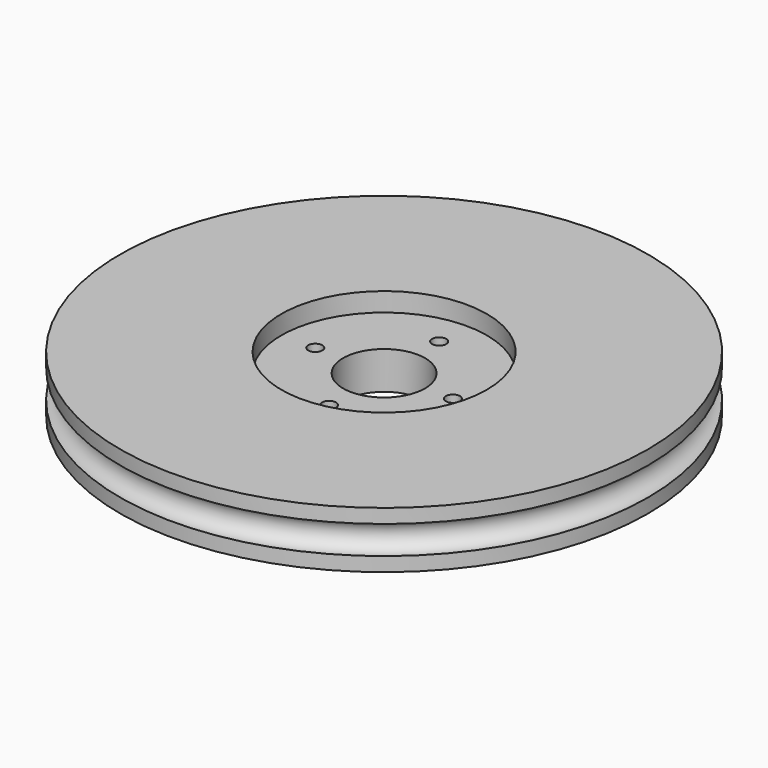
from build123d import *

# Parameters (mm, degrees)
CYLINDER003_R     = 0.75
CYLINDER003_DEPTH = 10
ARRAY_COUNT       = 4
CYLINDER002_R     = 4.35
CYLINDER002_DEPTH = 10
CYLINDER001_R     = 10.9
CYLINDER001_DEPTH = 10
TORUS_R           = 1.5
CYLINDER_R        = 28
CYLINDER_DEPTH    = 6


with BuildPart() as array:
    # Cylinder003 → Cylinder003 (new body)
    with BuildSketch(Plane(origin=(0, 7.3, -5), x_dir=(1, 0, 0), z_dir=(0, 0, 1))):
        Circle(CYLINDER003_R)
    extrude(amount=CYLINDER003_DEPTH)

    # Array: Array ×4 about axis
    array_axis = Axis((0, 0, 0), (0, 0, 1))


with BuildPart() as array_1:
    add(array.part)
    for i in range(1, ARRAY_COUNT):
        add(array.part.rotate(array_axis, i * 360 / ARRAY_COUNT))


with BuildPart() as cilindre002:
    # Cylinder002 → Cylinder002 (new body)
    with BuildSketch(Plane.XY.offset(-5)):
        Circle(CYLINDER002_R)
    extrude(amount=CYLINDER002_DEPTH)


with BuildPart() as cilindre001:
    # Cylinder001 → Cylinder001 (new body)
    with BuildSketch(Plane.XY.offset(1)):
        Circle(CYLINDER001_R)
    extrude(amount=CYLINDER001_DEPTH)


with BuildPart() as torus:
    # Torus → Torus (revolve)
    with BuildSketch(Plane.XZ):
        with Locations((28, 0)):
            Circle(TORUS_R)
    revolve(axis=Axis((0, 0, 0), (0, 0, 1)))


with BuildPart() as obj1:
    # Cylinder → Cylinder (new body)
    with BuildSketch(Plane.XY.offset(-3)):
        Circle(CYLINDER_R)
    extrude(amount=CYLINDER_DEPTH)

    # Cut: cut Torus
    add(torus.part, mode=Mode.SUBTRACT)

    # Cut001: cut Cilindre001
    add(cilindre001.part, mode=Mode.SUBTRACT)

    # Cut002: cut Cilindre002
    add(cilindre002.part, mode=Mode.SUBTRACT)

    # Cut003: cut Array
    add(array_1.part, mode=Mode.SUBTRACT)


solid = obj1.part
